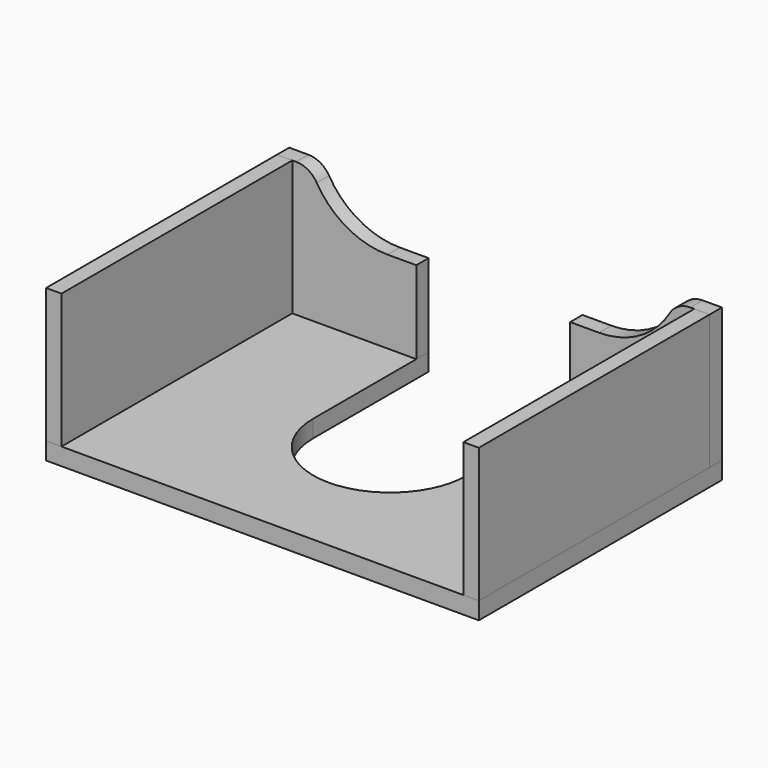
from build123d import *

# Parameters (mm, degrees)
F0_W      = 450
F0_H      = 140
F1_DEPTH  = 16
F3_DEPTH  = 16.001
F4_W      = 16
F4_H      = 140
F5_DEPTH  = 300
F7_W      = 450
F7_H      = 316
F8_DEPTH  = 18
F10_DEPTH = 250
F12_D     = 5


with BuildPart() as f1:
    # F0 (on Front) → F1 (new body)
    with BuildSketch(Plane.XZ):
        Rectangle(F0_W, F0_H)
    extrude(amount=F1_DEPTH)

    # F2 (on face) → F3 (cut, through all)
    with BuildSketch(Plane.XZ.offset(16)):
        with BuildLine():
            Line((205, 70), (-205, 70))
            ThreePointArc((-205, 70), (-192.6458343763, 66.7341802639), (-183.519386986, 57.7899673394))
            ThreePointArc((-183.519386986, 57.7899673394), (-152.2832757513, 27.1775704376), (-110, 16))
            Line((-110, 16), (0, 16))
            Line((0, 16), (110, 16))
            ThreePointArc((110, 16), (152.2832757513, 27.1775704376), (183.519386986, 57.7899673394))
            ThreePointArc((183.519386986, 57.7899673394), (192.6458343763, 66.7341802639), (205, 70))
        make_face()
    extrude(amount=-F3_DEPTH, mode=Mode.SUBTRACT)


with BuildPart() as f5:
    # F4 (on face) → F5 (new body)
    with BuildSketch(Plane.XZ.offset(16)):
        with Locations((-217, 0)):
            Rectangle(F4_W, F4_H)
    extrude(amount=F5_DEPTH)


with BuildPart() as f6_1:
    # F6: instance of F5
    add(f5.part.mirror(Plane.YZ))


with BuildPart() as f8:
    # F7 (on face) → F8 (new body)
    with BuildSketch(Plane(origin=(0, 0, -70), x_dir=(1, 0, 0), z_dir=(0, 0, -1))):
        with Locations((0, 158)):
            Rectangle(F7_W, F7_H)
    extrude(amount=F8_DEPTH)


with BuildPart() as f10_tool:
    # F9 (on face) → F10 (new body, symmetric)
    with BuildSketch(Plane.XY.offset(-70)):
        with BuildLine():
            Line((80, 0), (-80, 0))
            Line((-80, 0), (-80, -150))
            ThreePointArc((-80, -150), (0, -230), (80, -150))
            Line((80, -150), (80, 0))
        make_face()
    extrude(amount=F10_DEPTH, both=True)


with BuildPart() as f1_1:
    add(f1.part)

    # F10: cut by f10_tool
    add(f10_tool.part, mode=Mode.SUBTRACT)


with BuildPart() as f8_1:
    add(f8.part)

    # F10: cut by f10_tool
    add(f10_tool.part, mode=Mode.SUBTRACT)

    # F12 (through all)
    with Locations(Plane.XY.offset(-70)):
        with Locations((-217, -158), (-217, -281), (-217, -35)):
            Hole(F12_D / 2)


solid = Compound([f5.part, f6_1.part, f1_1.part, f8_1.part])
